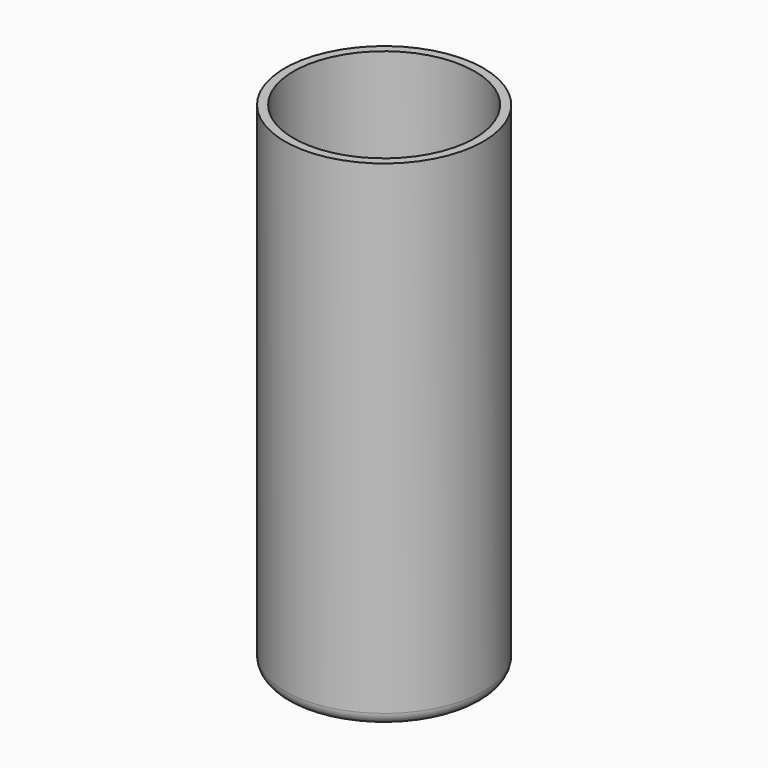
from build123d import *

# Parameters (mm, degrees)
F0_R     = 40
F1_DEPTH = 200
F2_R     = 5
F3_R     = 36.5
F4_DEPTH = 192


with BuildPart() as f1:
    # F0 (on Top) → F1 (new body)
    with BuildSketch(Plane.XY):
        Circle(F0_R)
    extrude(amount=F1_DEPTH)

    # F2
    f2_edges = [f1.edges().sort_by_distance(p)[0] for p in [
        (-40, 0, 0),
    ]]
    fillet(f2_edges, radius=F2_R)

    # F3 (on face) → F4 (cut)
    with BuildSketch(Plane.XY.offset(200)):
        Circle(F3_R)
    extrude(amount=-F4_DEPTH, mode=Mode.SUBTRACT)


solid = f1.part
